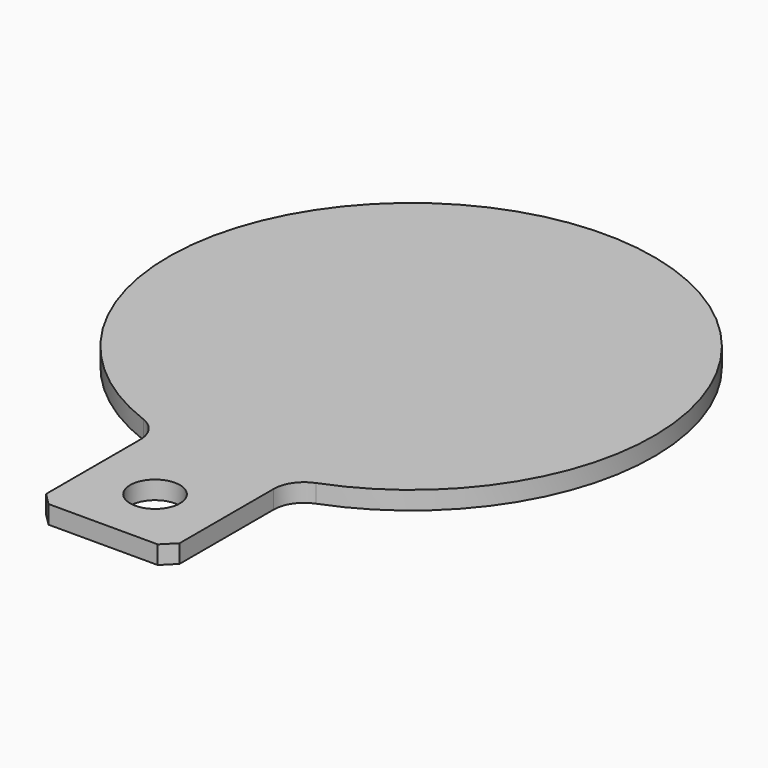
from build123d import *

# Parameters (mm, degrees)
F0_R     = 4.1
F1_DEPTH = 3
F2_SIZE  = 2


with BuildPart() as f1:
    # F0 (on Top) → F1 (new body)
    with BuildSketch(Plane.XY):
        with BuildLine():
            Line((-11, -3.601713), (-11, -25))
            Line((-11, -25), (11, -25))
            Line((11, -25), (11, -3.601713))
            ThreePointArc((11, -3.601713), (11.883637, -0.763482), (14.222222, 1.071563))
            ThreePointArc((14.222222, 1.071563), (0, 78.457769), (-14.222222, 1.071563))
            ThreePointArc((-14.222222, 1.071563), (-11.883637, -0.763482), (-11, -3.601713))
        make_face()
        with Locations((0, -14.300856)):
            Circle(F0_R, mode=Mode.SUBTRACT)
    extrude(amount=F1_DEPTH)

    # F2
    f2_edges = [f1.edges().sort_by_distance(p)[0] for p in [
        (11, -25, 1.5),
        (-11, -25, 1.5),
    ]]
    chamfer(f2_edges, length=F2_SIZE)


solid = f1.part
